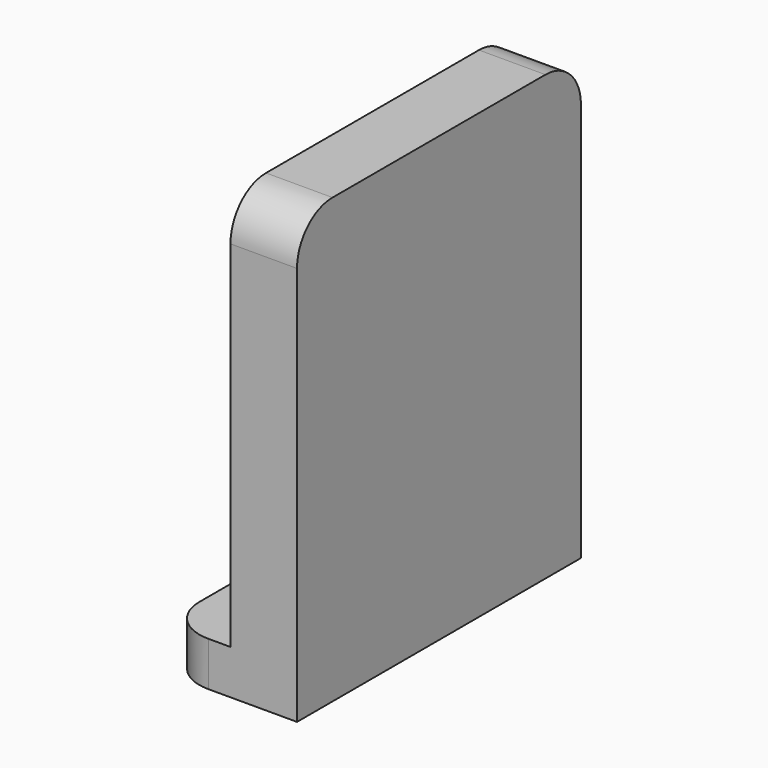
from build123d import *

# Parameters (mm, degrees)
F1_DEPTH = 50.8
F3_DEPTH = 25.4
F5_DEPTH = 25.4
F7_DEPTH = 2.54
F8_W     = 5.829871
F8_H     = 7.639144
F9_DEPTH = 2.54


with BuildPart() as f1:
    # F0 (on Front) → F1 (new body)
    with BuildSketch(Plane.XZ):
        Polygon((0, 6.35), (0, 0), (19.05, 0), (19.05, 63.5), (9.525, 63.5), (9.525, 6.35), align=None)
    extrude(amount=F1_DEPTH)

    # F2 (on face) → F3 (cut)
    with BuildSketch(Plane.XY.offset(6.35)):
        with BuildLine():
            ThreePointArc((0, -6.35), (1.859872, -1.859872), (6.35, 0))
            Line((6.35, 0), (0, 0))
            Line((0, 0), (0, -6.35))
        make_face()
        with BuildLine():
            Line((0, -50.8), (6.35, -50.8))
            ThreePointArc((6.35, -50.8), (1.859872, -48.940128), (0, -44.45))
            Line((0, -44.45), (0, -50.8))
        make_face()
    extrude(amount=-F3_DEPTH, mode=Mode.SUBTRACT)

    # F4 (on face) → F5 (cut)
    with BuildSketch(Plane(origin=(9.525, 0, 0), x_dir=(0, -1, 0), z_dir=(-1, 0, 0))):
        with BuildLine():
            ThreePointArc((0, 57.15), (1.859872, 61.640128), (6.35, 63.5))
            Line((6.35, 63.5), (0, 63.5))
            Line((0, 63.5), (0, 57.15))
        make_face()
        with BuildLine():
            ThreePointArc((44.45, 63.5), (48.940128, 61.640128), (50.8, 57.15))
            Line((50.8, 57.15), (50.8, 63.5))
            Line((50.8, 63.5), (44.45, 63.5))
        make_face()
    extrude(amount=-F5_DEPTH, mode=Mode.SUBTRACT)

    # F6 (on face) → F7 (cut)
    with BuildSketch(Plane(origin=(9.525, 0, 0), x_dir=(0, -1, 0), z_dir=(-1, 0, 0))):
        Polygon((6.35, 50.224786), (6.35, 43.83772), (12.7, 43.83772), (12.7, 49.350649), (19.05, 49.350649), (19.05, 39.655992), (12.7, 39.655992), (12.7, 26.955992), (19.05, 26.955992), (19.05, 17.261336), (12.7, 17.261336), (12.7, 20.796465), (6.35, 20.796465), (6.35, 13.726207), (12.7, 10.572023), (19.05, 10.572023), (23.714906, 13.726207), (23.714906, 32.776207), (22.196746, 33.305992), (23.714906, 35.193134), (23.714906, 50.224786), (19.05, 54.197977), (12.7, 54.197977), align=None)
    extrude(amount=-F7_DEPTH, mode=Mode.SUBTRACT)

    # F8 (on face) → F9 (cut)
    with BuildSketch(Plane(origin=(9.525, 0, 0), x_dir=(0, -1, 0), z_dir=(-1, 0, 0))):
        Polygon((28.345251, 40.407062), (34.175124, 37.190579), (40.809121, 37.190579), (40.809121, 17.261336), (34.175124, 17.261336), (34.175124, 23.118468), (28.345251, 23.118468), (28.345251, 13.726207), (30.590052, 10.572023), (44.45, 10.572023), (46.638995, 13.726207), (46.638995, 50.224786), (44.45, 54.197977), (33.974096, 54.197977), (28.345251, 50.257538), align=None)
        with Locations((37.492122, 46.437966)):
            Rectangle(F8_W, F8_H, mode=Mode.SUBTRACT)
    extrude(amount=-F9_DEPTH, mode=Mode.SUBTRACT)


solid = f1.part
